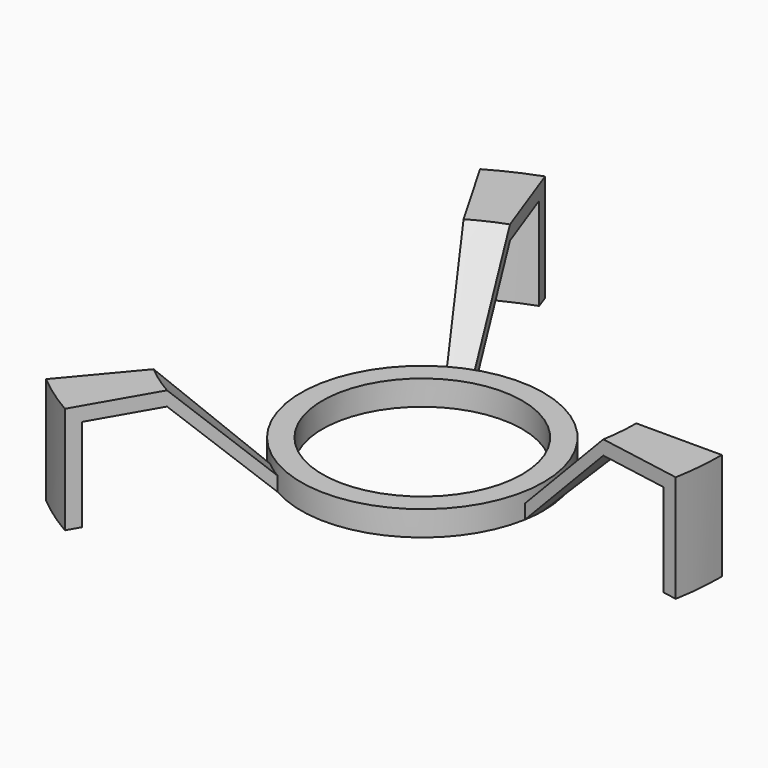
from build123d import *

# Parameters (mm, degrees)
SKETCH_R           = 17
SKETCH_R_2         = 14
PAD_DEPTH          = 3.5
REVOLUTION_ANGLE   = -10
POLARPATTERN_COUNT = 3


with BuildPart() as part:
    # Sketch → Pad (new body)
    with BuildSketch(Plane.XY):
        Circle(SKETCH_R)
        Circle(SKETCH_R_2, mode=Mode.SUBTRACT)
    extrude(amount=PAD_DEPTH)

    # Sketch001 → Revolution (revolve)
    with BuildSketch(Plane.XZ):
        Polygon((17, 2), (30, 15), (42, 15), (42, 0), (40, 0), (40, 13), (30, 13), (17, 0), align=None)
    revolution = revolve(axis=Axis((0, 0, 0), (0, 0, 1)), revolution_arc=REVOLUTION_ANGLE)

    # PolarPattern: Revolution ×3 about axis
    polarpattern_axis = Axis((0, 0, 0), (0, 0, 1))
    for i in range(1, POLARPATTERN_COUNT):
        add(revolution.rotate(polarpattern_axis, i * 360 / POLARPATTERN_COUNT))


solid = part.part
